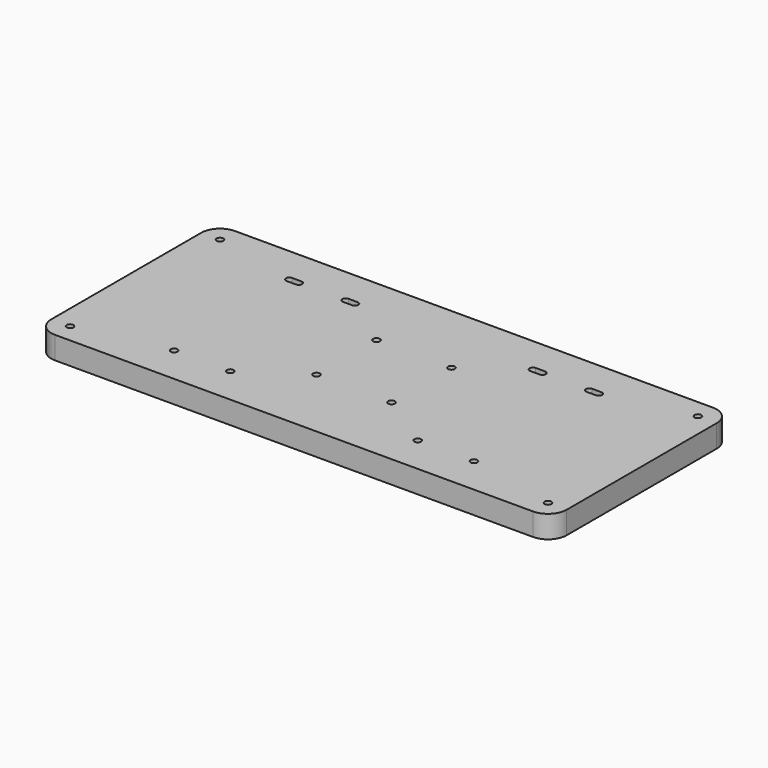
from build123d import *

# Parameters (mm, degrees)
SKETCH001_R  = 1.8
PAD001_DEPTH = 12


with BuildPart() as part:
    # Sketch001 → Pad001 (new body)
    with BuildSketch(Plane.XY.offset(-19.5)):
        with BuildLine():
            Line((-127.5, 60), (127.5, 60))
            ThreePointArc((137.5, 49.999999), (134.571068, 57.071067), (127.5, 60))
            Line((137.5, 49.999999), (137.5, -49.999999))
            ThreePointArc((127.5, -60), (134.571068, -57.071067), (137.5, -49.999999))
            Line((127.5, -60), (-127.5, -60))
            ThreePointArc((-137.5, -50), (-134.571068, -57.071067), (-127.5, -60))
            Line((-137.5, -50), (-137.5, 50))
            ThreePointArc((-127.5, 60), (-134.571068, 57.071068), (-137.5, 50))
        make_face()
        with Locations((-80, -40)):
            Circle(SKETCH001_R, mode=Mode.SUBTRACT)
        with Locations((-50, -40)):
            Circle(SKETCH001_R, mode=Mode.SUBTRACT)
        with Locations((50, -40)):
            Circle(SKETCH001_R, mode=Mode.SUBTRACT)
        with Locations((80, -40)):
            Circle(SKETCH001_R, mode=Mode.SUBTRACT)
        with Locations((-127.5, -50)):
            Circle(SKETCH001_R, mode=Mode.SUBTRACT)
        with Locations((-127.5, 50)):
            Circle(SKETCH001_R, mode=Mode.SUBTRACT)
        with Locations((127.5, 50)):
            Circle(SKETCH001_R, mode=Mode.SUBTRACT)
        with Locations((127.5, -50)):
            Circle(SKETCH001_R, mode=Mode.SUBTRACT)
        with Locations((-20, 20)):
            Circle(SKETCH001_R, mode=Mode.SUBTRACT)
        with Locations((20, 20)):
            Circle(SKETCH001_R, mode=Mode.SUBTRACT)
        with Locations((-20, -20)):
            Circle(SKETCH001_R, mode=Mode.SUBTRACT)
        with Locations((20, -20)):
            Circle(SKETCH001_R, mode=Mode.SUBTRACT)
        with BuildLine():
            ThreePointArc((-82.5, 41.8), (-84.3, 40), (-82.5, 38.2))
            Line((-82.5, 38.2), (-77.5, 38.2))
            ThreePointArc((-77.5, 38.2), (-75.7, 40), (-77.5, 41.8))
            Line((-82.5, 41.8), (-77.5, 41.8))
        make_face(mode=Mode.SUBTRACT)
        with BuildLine():
            ThreePointArc((-52.5, 41.8), (-54.3, 40), (-52.5, 38.2))
            Line((-52.5, 38.2), (-47.5, 38.2))
            ThreePointArc((-47.5, 38.2), (-45.7, 40), (-47.5, 41.8))
            Line((-52.5, 41.8), (-47.5, 41.8))
        make_face(mode=Mode.SUBTRACT)
        with BuildLine():
            ThreePointArc((47.5, 41.8), (45.7, 40), (47.5, 38.2))
            Line((47.5, 38.2), (52.5, 38.2))
            ThreePointArc((52.5, 38.2), (54.3, 40), (52.5, 41.8))
            Line((47.5, 41.8), (52.5, 41.8))
        make_face(mode=Mode.SUBTRACT)
        with BuildLine():
            ThreePointArc((77.5, 41.8), (75.7, 40), (77.5, 38.2))
            Line((77.5, 38.2), (82.5, 38.2))
            ThreePointArc((82.5, 38.2), (84.3, 40), (82.5, 41.8))
            Line((77.5, 41.8), (82.5, 41.8))
        make_face(mode=Mode.SUBTRACT)
    extrude(amount=PAD001_DEPTH)


solid = part.part
